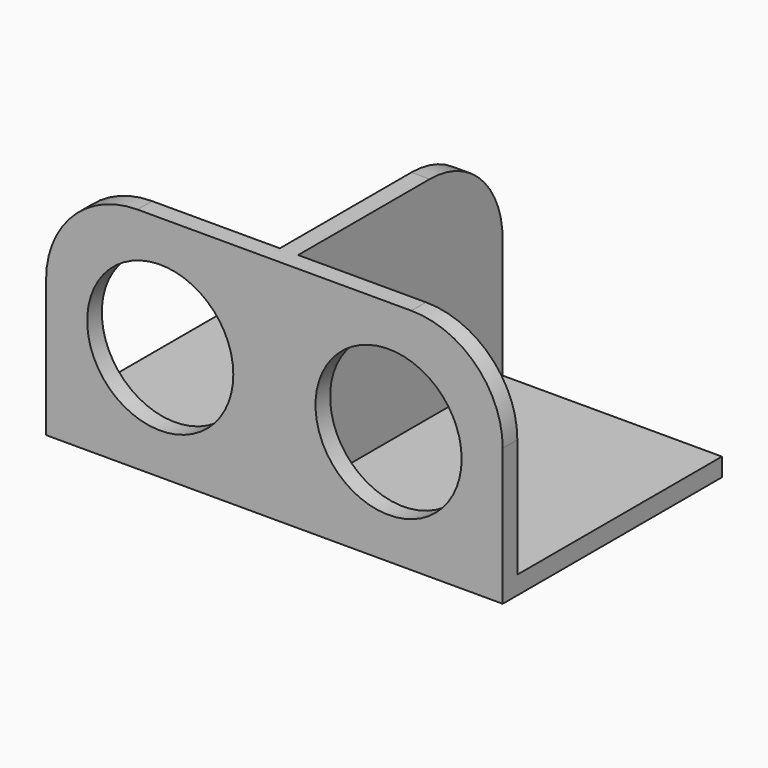
from build123d import *

# Parameters (mm, degrees)
CYLINDER_R        = 8
CYLINDER_DEPTH    = 10
CYLINDER001_R     = 8
CYLINDER001_DEPTH = 10
BOX002_W          = 2
BOX002_H          = 30
BOX002_DEPTH      = 25
FILLET_R          = 10
BOX001_W          = 50
BOX001_H          = 2
BOX001_DEPTH      = 25
FILLET001_R       = 10
BOX_W             = 50
BOX_H             = 30
BOX_DEPTH         = 2


with BuildPart() as cylinder:
    # Cylinder → Cylinder (new body)
    with BuildSketch(Plane(origin=(12.5, 4, 12.5), x_dir=(1, 0, 0), z_dir=(0, -1, 0))):
        Circle(CYLINDER_R)
    extrude(amount=CYLINDER_DEPTH)


with BuildPart() as fusion:
    # Cylinder001 → Cylinder001 (new body)
    with BuildSketch(Plane(origin=(37.5, 4, 12.5), x_dir=(1, 0, 0), z_dir=(0, -1, 0))):
        Circle(CYLINDER001_R)
    extrude(amount=CYLINDER001_DEPTH)

    # Fusion: union Cylinder
    add(cylinder.part)


with BuildPart() as fillet_body:
    # Box002 → Box002 (new body)
    with BuildSketch(Plane(origin=(24, 0, 0), x_dir=(1, 0, 0), z_dir=(0, 0, 1))):
        with Locations((1, 15)):
            Rectangle(BOX002_W, BOX002_H)
    extrude(amount=BOX002_DEPTH)

    # Fillet
    fillet_edges = [fillet_body.edges().sort_by_distance(p)[0] for p in [
        (25, 30, 25),
    ]]
    fillet(fillet_edges, radius=FILLET_R)


with BuildPart() as fillet001:
    # Box001 → Box001 (new body)
    with BuildSketch(Plane.XY):
        with Locations((25, 1)):
            Rectangle(BOX001_W, BOX001_H)
    extrude(amount=BOX001_DEPTH)

    # Fillet001
    fillet001_edges = [fillet001.edges().sort_by_distance(p)[0] for p in [
        (0, 1, 25),
        (50, 1, 25),
    ]]
    fillet(fillet001_edges, radius=FILLET001_R)


with BuildPart() as cut001:
    # Box → Box (new body)
    with BuildSketch(Plane.XY):
        with Locations((25, 15)):
            Rectangle(BOX_W, BOX_H)
    extrude(amount=BOX_DEPTH)

    # Fusion001: union Fillet body, Fillet001
    add(fillet_body.part)
    add(fillet001.part)

    # Cut: cut Fusion
    add(fusion.part, mode=Mode.SUBTRACT)


solid = cut001.part
